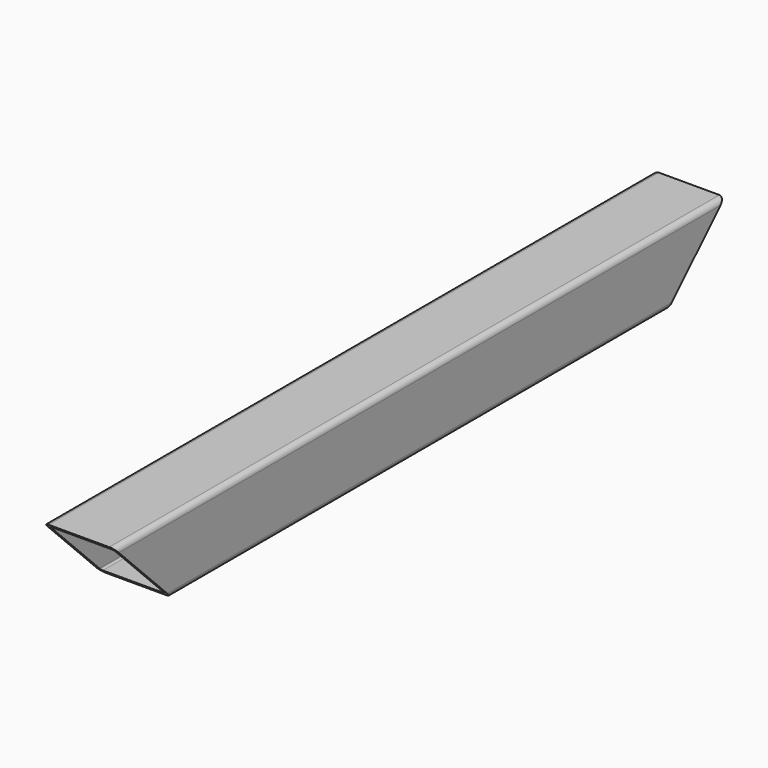
from build123d import *

# Parameters (mm, degrees)
F2_W     = 40
F2_H     = 40
F3_DEPTH = 214
F4_R     = 3
F5_T     = -2
F7_DEPTH = 40.001
F9_DEPTH = 40.001


with BuildPart() as f3:
    # F2 (on Front) → F3 (new body, symmetric)
    with BuildSketch(Plane.XZ):
        Rectangle(F2_W, F2_H)
    extrude(amount=F3_DEPTH, both=True)

    # F4
    f4_edges = [f3.edges().sort_by_distance(p)[0] for p in [
        (20, 0, 20),
        (-20, 0, 20),
        (20, 0, -20),
        (-20, 0, -20),
    ]]
    fillet(f4_edges, radius=F4_R)

    # F5
    f5_openings = [f3.faces().sort_by_distance(p)[0] for p in [
        (0, -214, 0),
        (0, 214, 0),
    ]]
    offset(amount=F5_T, openings=f5_openings)

    # F6 (on face) → F7 (cut, through all)
    with BuildSketch(Plane(origin=(-20, 0, 0), x_dir=(0, -1, 0), z_dir=(-1, 0, 0))):
        Polygon((-214, 20), (-214, -20), (-174, -20), align=None)
    extrude(amount=-F7_DEPTH, mode=Mode.SUBTRACT)

    # F8 (on face) → F9 (cut, through all)
    with BuildSketch(Plane.YZ.offset(20)):
        Polygon((-214, -20), (-174, -20), (-214, 20), align=None)
    extrude(amount=-F9_DEPTH, mode=Mode.SUBTRACT)


solid = f3.part
